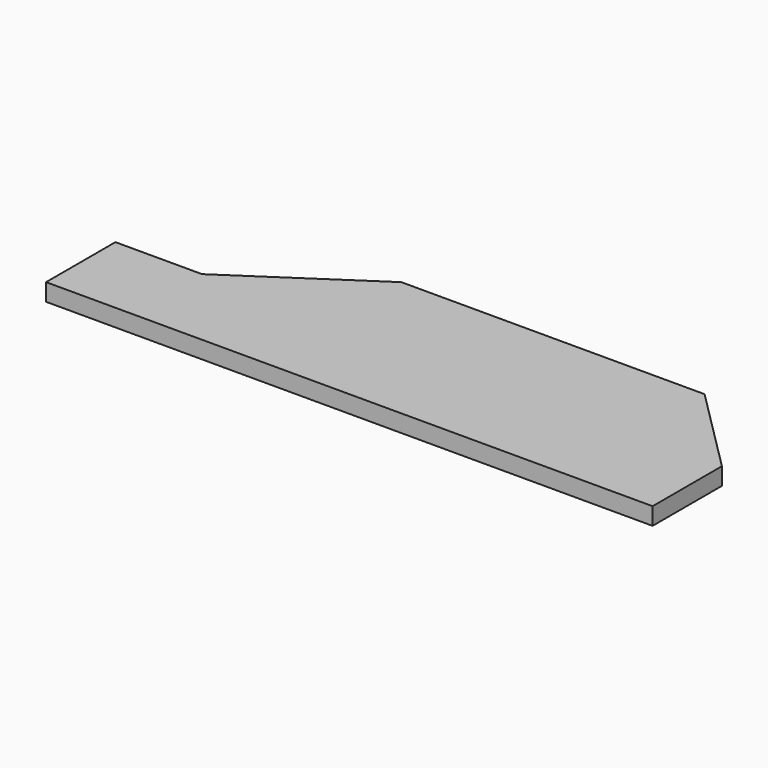
from build123d import *

# Parameters (mm, degrees)
F1_DEPTH = 60.96


with BuildPart() as f1:
    # F0 (on Top) → F1 (new body)
    with BuildSketch(Plane.XY):
        Polygon((1066.8, 0), (762, 304.8), (-304.8, 304.8), (-762, 0), (-1066.8, 0), (-1066.8, -304.8), (1066.8, -304.8), align=None)
    extrude(amount=-F1_DEPTH)


solid = f1.part
